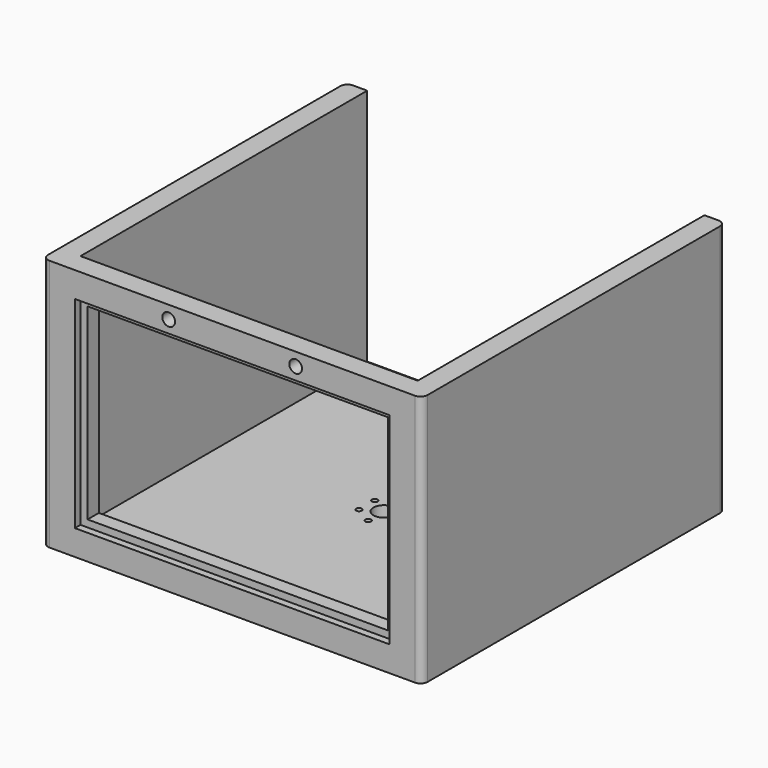
from build123d import *

# Parameters (mm, degrees)
F0_R     = 2
F0_R_2   = 7.5
F1_DEPTH = 10
F3_DEPTH = 169
F4_W     = 223
F4_H     = 143
F4_W_2   = 212.9999995232
F4_H_2   = 132.9999995232
F5_DEPTH = 5
F6_DEPTH = 25
F7_R     = 4.5
F8_DEPTH = 25


with BuildPart() as f1:
    # F0 (on Top) → F1 (new body)
    with BuildSketch(Plane.XY):
        with BuildLine():
            Line((129.5, 134.5), (-129.5, 134.5))
            ThreePointArc((-129.5, 134.5), (-133.0355339059, 133.0355339059), (-134.5, 129.5))
            Line((-134.5, 129.5), (-134.5, -129.5))
            ThreePointArc((-134.5, -129.5), (-133.0355339059, -133.0355339059), (-129.5, -134.5))
            Line((-129.5, -134.5), (129.5, -134.5))
            ThreePointArc((129.5, -134.5), (133.0355339059, -133.0355339059), (134.5, -129.5))
            Line((134.5, -129.5), (134.5, 129.5))
            ThreePointArc((134.5, 129.5), (133.0355339059, 133.0355339059), (129.5, 134.5))
        make_face()
        with Locations((-12.124355653, -7)):
            Circle(F0_R, mode=Mode.SUBTRACT)
        with Locations((0, -14)):
            Circle(F0_R, mode=Mode.SUBTRACT)
        with Locations((12.124355653, -7)):
            Circle(F0_R, mode=Mode.SUBTRACT)
        with Locations((-12.124355653, 7)):
            Circle(F0_R, mode=Mode.SUBTRACT)
        Circle(F0_R_2, mode=Mode.SUBTRACT)
        with Locations((12.124355653, 7)):
            Circle(F0_R, mode=Mode.SUBTRACT)
        with Locations((0, 14)):
            Circle(F0_R, mode=Mode.SUBTRACT)
    extrude(amount=F1_DEPTH)

    # F2 (on face) → F3 (join)
    with BuildSketch(Plane.XY.offset(10)):
        with BuildLine():
            ThreePointArc((-134.5, -129.5), (-133.0355339059, -133.0355339059), (-129.5, -134.5))
            Line((-129.5, -134.5), (129.5, -134.5))
            ThreePointArc((129.5, -134.5), (133.0355339059, -133.0355339059), (134.5, -129.5))
            Line((134.5, -129.5), (134.5, -119.5))
            Line((134.5, -119.5), (134.5, 129.5))
            ThreePointArc((134.5, 129.5), (133.0355339059, 133.0355339059), (129.5, 134.5))
            Line((129.5, 134.5), (119.5, 134.5))
            Line((119.5, 134.5), (119.5, -119.5))
            Line((119.5, -119.5), (-119.5, -119.5))
            Line((-119.5, -119.5), (-119.5, 134.5))
            Line((-119.5, 134.5), (-129.5, 134.5))
            ThreePointArc((-129.5, 134.5), (-133.0355339059, 133.0355339059), (-134.5, 129.5))
            Line((-134.5, 129.5), (-134.5, -119.5))
            Line((-134.5, -119.5), (-134.5, -129.5))
        make_face()
    extrude(amount=F3_DEPTH)

    # F4 (on face) → F5 (cut)
    with BuildSketch(Plane.XZ.offset(134.5)):
        with Locations((0, 89.5)):
            Rectangle(F4_W, F4_H)
        with Locations((0, 89.5)):
            Rectangle(F4_W_2, F4_H_2, mode=Mode.SUBTRACT)
    extrude(amount=-F5_DEPTH, mode=Mode.SUBTRACT)

    # F6 (cut): a face of the model
    f6_faces = [f1.faces().sort_by_distance(p)[0] for p in [
        (0, -134.5, 89.5),
    ]]
    extrude(f6_faces, amount=-F6_DEPTH, mode=Mode.SUBTRACT)

    # F7 (on face) → F8 (cut)
    with BuildSketch(Plane(origin=(0, -119.5, 0), x_dir=(-1, 0, 0), z_dir=(0, 1, 0))):
        with Locations((-45, 169.7952974686)):
            Circle(F7_R)
        with Locations((45, 169.7952974686)):
            Circle(F7_R)
    extrude(amount=-F8_DEPTH, mode=Mode.SUBTRACT)


solid = f1.part
